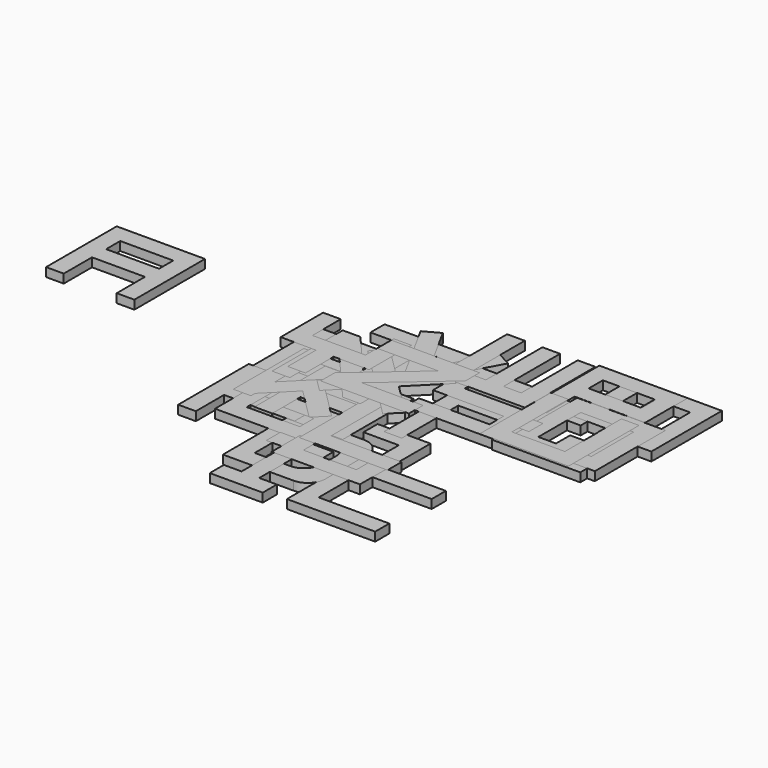
from build123d import *

# Parameters (mm, degrees)
F1_DEPTH  = 1
F2_W      = 6
F2_H      = 2
F2_W_2    = 4
F3_DEPTH  = 1
F5_DEPTH  = 1
F7_DEPTH  = 1
F9_DEPTH  = 1
F11_DEPTH = 1
F13_DEPTH = 1
F15_DEPTH = 1
F17_DEPTH = 1
F19_DEPTH = 1
F21_DEPTH = 1
F23_DEPTH = 1
F25_DEPTH = 1
F27_DEPTH = 1
F28_W     = 6
F28_H     = 6
F29_DEPTH = 1
F30_W     = 6
F30_H     = 2
F31_DEPTH = 1
F33_DEPTH = 1
F35_DEPTH = 1
F37_DEPTH = 1
F39_DEPTH = 1
F41_DEPTH = 1
F43_DEPTH = 1
F45_DEPTH = 1
F47_DEPTH = 1
F49_DEPTH = 1
F51_DEPTH = 1


with BuildPart() as f1:
    # F0 (on Top) → F1 (new body)
    with BuildSketch(Plane.XY):
        Polygon((-25.223938, 13.344604), (-30.223938, 13.344604), (-30.223938, 11.344604), (-30.223938, 3.344604), (-28.223938, 3.344604), (-28.223938, 7.344604), (-25.223938, 7.344604), (-25.223938, 9.344604), (-28.223938, 9.344604), (-28.223938, 11.344604), (-25.223938, 11.344604), align=None)
        Polygon((-20.223938, 13.344604), (-25.223938, 13.344604), (-25.223938, 11.344604), (-22.223938, 11.344604), (-22.223938, 9.344604), (-25.223938, 9.344604), (-25.223938, 7.344604), (-22.223938, 7.344604), (-22.223938, 3.344604), (-20.223938, 3.344604), (-20.223938, 11.344604), align=None)
    extrude(amount=F1_DEPTH)


with BuildPart() as f3:
    # F2 (on Top) → F3 (new body)
    with BuildSketch(Plane.XY):
        Polygon((3.846547, 9.365527), (-4.153453, 9.365527), (-4.153453, -0.634473), (5.846547, -0.634473), (5.846547, 5.365527), (3.846547, 5.365527), align=None)
        with Locations((0.846547, 2.365527)):
            Rectangle(F2_W, F2_H, mode=Mode.SUBTRACT)
        with Locations((-0.153453, 6.365527)):
            Rectangle(F2_W_2, F2_H, mode=Mode.SUBTRACT)
    extrude(amount=F3_DEPTH)


with BuildPart() as f5:
    # F4 (on Top) → F5 (new body)
    with BuildSketch(Plane.XY):
        Polygon((24.164872, -8.042298), (14.164872, -8.042298), (14.164872, -18.042298), (24.164872, -18.042298), (24.164872, -16.042298), (16.164872, -16.042298), (16.164872, -10.042298), (24.164872, -10.042298), align=None)
    extrude(amount=F5_DEPTH)


with BuildPart() as f7:
    # F6 (on Top) → F7 (new body)
    with BuildSketch(Plane.XY):
        with BuildLine():
            Line((6.421624, -4.925862), (4.421624, -4.925862))
            Line((4.421624, -4.925862), (4.421624, -10.00773))
            Line((4.421624, -10.00773), (6.421624, -9.991356))
            Line((6.421624, -9.991356), (6.421624, -6.925862))
            Line((6.421624, -6.925862), (10.421624, -6.925862))
            ThreePointArc((10.421624, -6.925862), (11.835838, -7.511648), (12.421624, -8.925862))
            Line((12.421624, -8.925862), (12.421624, -9.942235))
            Line((12.421624, -9.942235), (14.421624, -9.925862))
            Line((14.421624, -9.925862), (14.421624, -6.925862))
            ThreePointArc((14.421624, -6.925862), (13.835838, -5.511648), (12.421624, -4.925862))
            Line((12.421624, -4.925862), (6.421624, -4.925862))
        make_face()
        with BuildLine():
            Line((6.421624, -9.991356), (4.421624, -10.00773))
            Line((4.421624, -10.00773), (4.421624, -14.925862))
            Line((4.421624, -14.925862), (12.421624, -14.925862))
            ThreePointArc((12.421624, -14.925862), (13.835838, -14.340075), (14.421624, -12.925862))
            Line((14.421624, -12.925862), (14.421624, -9.925862))
            Line((14.421624, -9.925862), (12.421624, -9.942235))
            Line((12.421624, -9.942235), (12.421624, -10.925862))
            ThreePointArc((12.421624, -10.925862), (11.835838, -12.340075), (10.421624, -12.925862))
            Line((10.421624, -12.925862), (6.421624, -12.925862))
            Line((6.421624, -12.925862), (6.421624, -9.991356))
        make_face()
    extrude(amount=F7_DEPTH)


with BuildPart() as f9:
    # F8 (on Top) → F9 (new body)
    with BuildSketch(Plane.XY):
        Polygon((9.488482, 4), (-0.511518, 4), (-0.511518, -6), (9.488482, -6), (9.488482, -4), (1.488482, -4), (1.488482, -2), (9.488482, -2), (9.488482, 0), (1.488482, 0), (1.488482, 2), (9.488482, 2), align=None)
    extrude(amount=F9_DEPTH)


with BuildPart() as f11:
    # F10 (on Top) → F11 (new body)
    with BuildSketch(Plane.XY):
        Polygon((5.363906, 0.063013), (-4.636094, 0.063013), (-4.636094, -9.936987), (-2.636094, -9.936987), (-2.636094, -5.937277), (5.363906, -5.937277), (5.363906, -3.937277), (-2.636094, -3.937277), (-2.636094, -1.936987), (5.363906, -1.936987), align=None)
    extrude(amount=F11_DEPTH)


with BuildPart() as f13:
    # F12 (on Top) → F13 (new body)
    with BuildSketch(Plane.XY):
        Polygon((8.388065, 1.494071), (-1.611935, 1.494071), (-1.611935, -8.505929), (8.388065, -8.505929), (8.388065, -2.505929), (2.388065, -2.505929), (2.388065, -4.505929), (6.388065, -4.505929), (6.388065, -6.505929), (0.388065, -6.505929), (0.388065, -0.505929), (8.388065, -0.505929), align=None)
    extrude(amount=F13_DEPTH)


with BuildPart() as f15:
    # F14 (on Top) → F15 (new body)
    with BuildSketch(Plane.XY):
        Polygon((2.898872, 3.949718), (0.898872, 3.949718), (0.898872, -6.050282), (2.898872, -6.050282), (2.898872, -2.050282), (8.898872, -2.050282), (8.898872, -6.050282), (10.898872, -6.050282), (10.898872, 3.949718), (8.898872, 3.949718), (8.898872, -0.050282), (2.898872, -0.050282), align=None)
    extrude(amount=F15_DEPTH)


with BuildPart() as f17:
    # F16 (on Top) → F17 (new body)
    with BuildSketch(Plane.XY):
        Polygon((11.729103, -8.420078), (8.729103, -8.420078), (8.729103, -18.420078), (11.729103, -18.420078), (11.729103, -16.420078), (9.729103, -16.420078), (9.729103, -10.420078), (11.729103, -10.420078), align=None)
        Polygon((8.729103, -8.420078), (5.729103, -8.420078), (5.729103, -10.420078), (7.729103, -10.420078), (7.729103, -16.420078), (5.729103, -16.420078), (5.729103, -18.420078), (8.729103, -18.420078), align=None)
    extrude(amount=F17_DEPTH)


with BuildPart() as f19:
    # F18 (on Top) → F19 (new body)
    with BuildSketch(Plane.XY):
        Polygon((17.453035, -1.812313), (11.453035, -1.812313), (11.453035, -3.812313), (15.453035, -3.812313), (15.453035, -9.812313), (9.453035, -9.812313), (9.453035, -7.812313), (7.453035, -7.812313), (7.453035, -11.812313), (17.453035, -11.812313), (17.453035, -3.812313), align=None)
    extrude(amount=F19_DEPTH)


with BuildPart() as f21:
    # F20 (on Top) → F21 (new body)
    with BuildSketch(Plane.XY):
        Polygon((-0.675624, 5.421065), (-2.675624, 5.421065), (-2.675624, -4.578935), (-0.675624, -4.578935), (-0.675624, -3.993149), (2.324376, -0.993149), (5.910162, -4.578935), (7.324376, -3.164722), (3.738589, 0.421065), (7.324376, 4.006851), (5.910162, 5.421065), (-0.675624, -1.164722), align=None)
    extrude(amount=F21_DEPTH)


with BuildPart() as f23:
    # F22 (on Top) → F23 (new body)
    with BuildSketch(Plane.XY):
        Polygon((9.652368, 1.838773), (7.652368, 1.838773), (7.652368, -8.161227), (17.652368, -8.161227), (17.652368, -6.161227), (9.652368, -6.161227), align=None)
    extrude(amount=F23_DEPTH)


with BuildPart() as f25:
    # F24 (on Top) → F25 (new body)
    with BuildSketch(Plane.XY):
        Polygon((33.650883, 19.193282), (23.650883, 19.193282), (23.650883, 9.193282), (25.650883, 9.193282), (25.650883, 17.193282), (27.650883, 17.193282), (27.650883, 9.193282), (29.650883, 9.193282), (29.650883, 17.193282), (31.650883, 17.193282), (31.650883, 9.193282), (33.650883, 9.193282), align=None)
    extrude(amount=F25_DEPTH)


with BuildPart() as f27:
    # F26 (on Top) → F27 (new body)
    with BuildSketch(Plane.XY):
        Polygon((-0.167582, 10.276552), (-2.167582, 10.276552), (-2.167582, 0.276552), (-0.167582, 0.276552), (-0.167582, 7.21813), (5.832418, 0.276552), (7.832418, 0.276552), (7.832418, 10.276552), (5.832418, 10.276552), (5.832418, 3.334974), align=None)
    extrude(amount=F27_DEPTH)


with BuildPart() as f29:
    # F28 (on Top) → F29 (new body)
    with BuildSketch(Plane.XY):
        Polygon((23.235229, 12.157509), (21.235229, 12.157509), (21.235229, 2.157509), (31.235229, 2.157509), (31.235229, 12.157509), align=None)
        with Locations((26.235229, 7.157509)):
            Rectangle(F28_W, F28_H, mode=Mode.SUBTRACT)
    extrude(amount=F29_DEPTH)


with BuildPart() as f31:
    # F30 (on Top) → F31 (new body)
    with BuildSketch(Plane.XY):
        Polygon((29.773204, 19.179117), (19.773204, 19.179117), (19.773204, 9.179117), (21.773204, 9.179117), (21.773204, 13.179117), (29.773204, 13.179117), align=None)
        with Locations((24.773204, 16.179117)):
            Rectangle(F30_W, F30_H, mode=Mode.SUBTRACT)
    extrude(amount=F31_DEPTH)


with BuildPart() as f33:
    # F32 (on Top) → F33 (new body)
    with BuildSketch(Plane.XY):
        Polygon((32.10051, 13.138867), (22.10051, 13.138867), (22.10051, 3.138867), (24.10051, 3.138867), (32.10051, 3.138867), align=None)
        Polygon((26.10051, 5.138867), (24.10051, 5.138867), (24.10051, 11.138867), (30.10051, 11.138867), (30.10051, 5.138867), (28.10051, 5.138867), (28.10051, 7.138867), (26.10051, 7.138867), align=None, mode=Mode.SUBTRACT)
    extrude(amount=F33_DEPTH)


with BuildPart() as f35:
    # F34 (on Top) → F35 (new body)
    with BuildSketch(Plane.XY):
        Polygon((22.809006, 7.412185), (12.809006, 7.412185), (12.809006, -2.587815), (14.809006, -2.587815), (14.809006, 5.412185), (22.809006, 5.412185), align=None)
    extrude(amount=F35_DEPTH)


with BuildPart() as f37:
    # F36 (on Top) → F37 (new body)
    with BuildSketch(Plane.XY):
        Polygon((21.220343, 12.323434), (11.220343, 12.323434), (11.220343, 6.323434), (19.220343, 6.323434), (19.220343, 4.323434), (11.220343, 4.323434), (11.220343, 2.323434), (21.220343, 2.323434), (21.220343, 8.323434), (13.220343, 8.323434), (13.220343, 10.323434), (21.220343, 10.323434), align=None)
    extrude(amount=F37_DEPTH)


with BuildPart() as f39:
    # F38 (on Top) → F39 (new body)
    with BuildSketch(Plane.XY):
        Polygon((10, 13.493455), (0, 13.493455), (0, 11.493455), (4, 11.493455), (4, 3.493455), (6, 3.493455), (6, 11.493455), (10, 11.493455), align=None)
    extrude(amount=F39_DEPTH)


with BuildPart() as f41:
    # F40 (on Top) → F41 (new body)
    with BuildSketch(Plane.XY):
        Polygon((21.675892, 12.427184), (19.675892, 12.427184), (19.675892, 2.427184), (29.675892, 2.427184), (29.675892, 12.427184), (27.675892, 12.427184), (27.675892, 4.427184), (21.675892, 4.427184), align=None)
    extrude(amount=F41_DEPTH)


with BuildPart() as f43:
    # F42 (on Top) → F43 (new body)
    with BuildSketch(Plane.XY):
        Polygon((3.311341, 14.452975), (8.258384, 5.413102), (13.205426, 14.452975), (11.450959, 15.413102), (8.258384, 9.579218), (5.065808, 15.413102), align=None)
    extrude(amount=F43_DEPTH)


with BuildPart() as f45:
    # F44 (on Top) → F45 (new body)
    with BuildSketch(Plane.XY):
        Polygon((11.649517, 18.778367), (9.649517, 18.778367), (9.649517, 8.778367), (19.649517, 8.778367), (19.649517, 18.778367), (17.649517, 18.778367), (17.649517, 10.778367), (15.649517, 10.778367), (15.649517, 18.778367), (13.649517, 18.778367), (13.649517, 10.778367), (11.649517, 10.778367), align=None)
    extrude(amount=F45_DEPTH)


with BuildPart() as f47:
    # F46 (on Top) → F47 (new body)
    with BuildSketch(Plane.XY):
        Polygon((6.999808, 6.414214), (3.414021, 10), (1.999808, 8.585786), (5.585594, 5), (1.999808, 1.414214), (3.414021, 0), (6.999808, 3.585786), (10.585594, 0), (11.999808, 1.414214), (8.414021, 5), (11.999808, 8.585786), (10.585594, 10), align=None)
    extrude(amount=F47_DEPTH)


with BuildPart() as f49:
    # F48 (on Top) → F49 (new body)
    with BuildSketch(Plane.XY):
        Polygon((-3.64188, 11.836058), (-5.64188, 11.836058), (-5.64188, 5.836058), (-1.64188, 5.836058), (-1.64188, 1.836058), (0.35812, 1.836058), (0.35812, 5.836058), (4.35812, 5.836058), (4.35812, 11.836058), (2.35812, 11.836058), (2.35812, 7.836058), (-3.64188, 7.836058), align=None)
    extrude(amount=F49_DEPTH)


with BuildPart() as f51:
    # F50 (on Top) → F51 (new body)
    with BuildSketch(Plane.XY):
        Polygon((12.358099, 11.491), (2.358099, 11.491), (2.358099, 9.491), (9.299677, 9.491), (2.358099, 3.491), (2.358099, 1.491), (12.358099, 1.491), (12.358099, 3.491), (5.416521, 3.491), (12.358099, 9.491), align=None)
    extrude(amount=F51_DEPTH)


solid = Compound([f1.part, f3.part, f5.part, f7.part, f9.part, f11.part, f13.part, f15.part, f17.part, f19.part, f21.part, f23.part, f25.part, f27.part, f29.part, f31.part, f33.part, f35.part, f37.part, f39.part, f41.part, f43.part, f45.part, f47.part, f49.part, f51.part])
